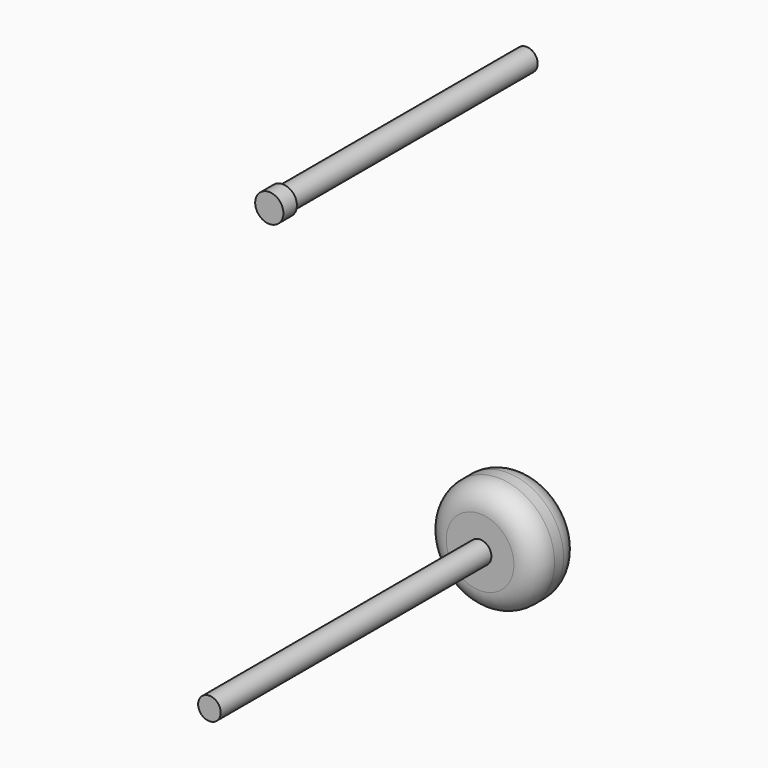
from build123d import *

# Parameters (mm, degrees)
F0_R     = 12.7
F1_DEPTH = 12.7
F2_R     = 2.54
F3_DEPTH = 76.2
F4_R     = 5.08
F5_R     = 3.175
F6_DEPTH = 3.81
F7_R     = 2.54
F8_DEPTH = 68.58


with BuildPart() as f1:
    # F0 (on Front) → F1 (new body)
    with BuildSketch(Plane.XZ):
        Circle(F0_R)
    extrude(amount=F1_DEPTH)

    # F2 (on face) → F3 (join)
    with BuildSketch(Plane.XZ.offset(12.7)):
        Circle(F2_R)
    extrude(amount=F3_DEPTH)

    # F4
    f4_edges = [f1.edges().sort_by_distance(p)[0] for p in [
        (-12.7, -12.7, 0),
        (-12.7, 0, 0),
    ]]
    fillet(f4_edges, radius=F4_R)


with BuildPart() as f6:
    # F5 (on Front) → F6 (new body)
    with BuildSketch(Plane.XZ):
        with Locations((-54.58729, 46.883442)):
            Circle(F5_R)
    extrude(amount=F6_DEPTH)

    # F7 (on face) → F8 (join)
    with BuildSketch(Plane(origin=(0, 0, 0), x_dir=(-1, 0, 0), z_dir=(0, 1, 0))):
        with Locations((54.58729, 46.883442)):
            Circle(F7_R)
    extrude(amount=F8_DEPTH)


solid = Compound([f1.part, f6.part])
